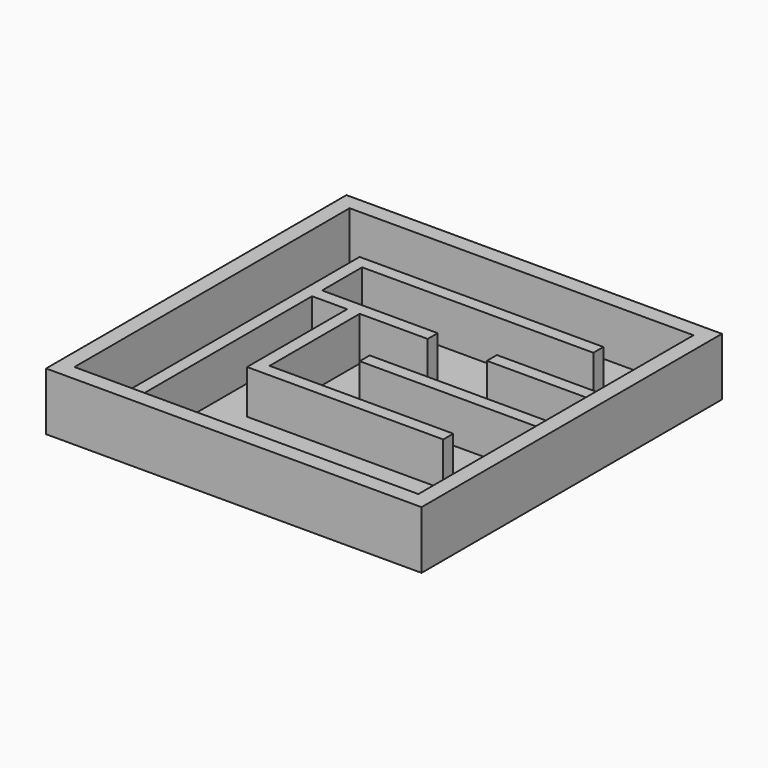
from build123d import *

# Parameters (mm, degrees)
F0_W     = 38.1
F0_H     = 38.1
F1_DEPTH = 0.79375
F2_W     = 38.1
F2_H     = 38.1
F2_W_2   = 34.8996
F2_H_2   = 34.8996
F3_DEPTH = 5.08
F4_W     = 23.4696
F4_H     = 1.27
F4_W_2   = 10.8094774936
F4_W_3   = 18.6369190906
F5_DEPTH = 4.445
F6_R     = 1.27
F7_DEPTH = 0.396875


with BuildPart() as f1:
    # F0 (on Top) → F1 (new body)
    with BuildSketch(Plane.XY):
        with Locations((-39.5794175565, 41.8581605069)):
            Rectangle(F0_W, F0_H)
    extrude(amount=F1_DEPTH)

    # F2 (on face) → F3 (join)
    with BuildSketch(Plane.XY.offset(0.79375)):
        with Locations((-39.5794175565, 41.8581605069)):
            Rectangle(F2_W, F2_H)
        with Locations((-39.5794175565, 41.8581605069)):
            Rectangle(F2_W_2, F2_H_2, mode=Mode.SUBTRACT)
    extrude(amount=F3_DEPTH)

    # F4 (on face) → F5 (join)
    with BuildSketch(Plane.XY.offset(0.79375)):
        Polygon((-51.9492175565, 54.2279605069), (-51.9492175565, 24.4083605069), (-50.6792175565, 24.4083605069), (-50.6792175565, 46.6079605069), (-50.6792175565, 47.8779605069), (-50.6792175565, 52.9579605069), (-50.6792175565, 54.2279605069), align=None)
        Polygon((-50.6792175565, 47.8779605069), (-50.6792175565, 46.6079605069), (-47.1165366471, 46.6079605069), (-45.8465366471, 46.6079605069), (-38.9444175565, 46.6079605069), (-38.9444175565, 47.8779605069), align=None)
        Polygon((-45.8465366471, 46.6079605069), (-47.1165366471, 46.6079605069), (-47.1165366471, 33.9079605069), (-45.8465366471, 33.9079605069), (-45.8465366471, 35.1779605069), align=None)
        with Locations((-38.9444175565, 53.5929605069)):
            Rectangle(F4_W, F4_H)
        with Locations((-27.5343563033, 47.2429605069)):
            Rectangle(F4_W_2, F4_H)
        with Locations((-31.4480771018, 40.8929605069)):
            Rectangle(F4_W_3, F4_H)
        with Locations((-36.5280771018, 34.5429605069)):
            Rectangle(F4_W_3, F4_H)
    extrude(amount=F5_DEPTH)

    # F6 (on face) → F7 (cut)
    with BuildSketch(Plane.XY.offset(0.79375)):
        with Locations((-54.7527819872, 30.2330423146)):
            Circle(F6_R)
        with Locations((-47.7302372456, 28.7605728954)):
            Circle(F6_R)
    extrude(amount=-F7_DEPTH, mode=Mode.SUBTRACT)


solid = f1.part
